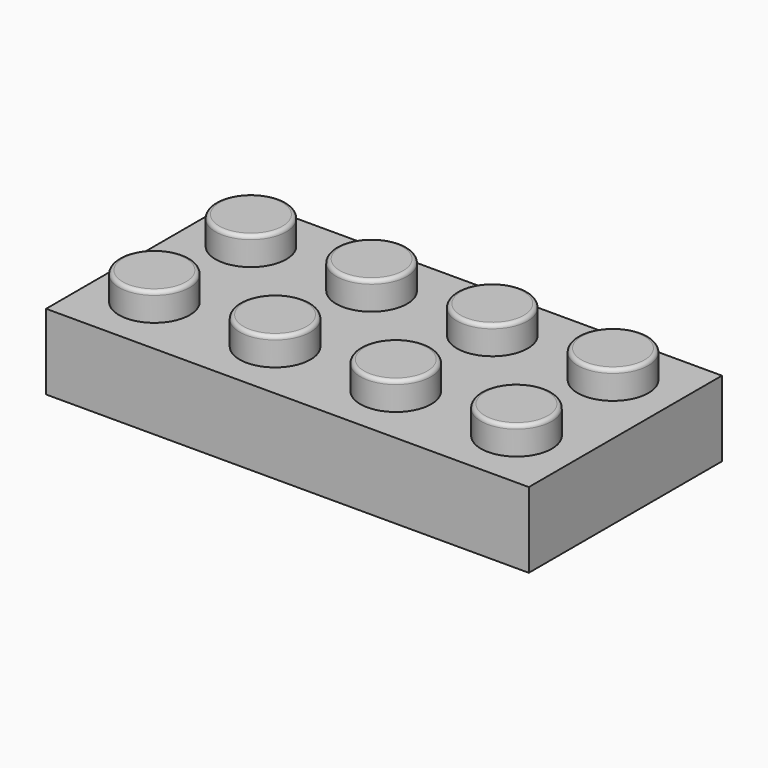
from build123d import *

# Parameters (mm, degrees)
F0_W     = 32.004
F0_H     = 16.002
F1_DEPTH = 5.0038
F2_R     = 2.3495
F3_DEPTH = 1.8542
F4_R     = 0.254


with BuildPart() as f1:
    # F0 (on Top) → F1 (new body)
    with BuildSketch(Plane.XY):
        with Locations((16.002, -8.001)):
            Rectangle(F0_W, F0_H)
    extrude(amount=F1_DEPTH)

    # F2 (on face) → F3 (join)
    with BuildSketch(Plane.XY.offset(5.0038)):
        with Locations((11.8999, -3.8989)):
            Circle(F2_R)
        with Locations((3.8989, -3.8989)):
            Circle(F2_R)
        with Locations((3.8989, -11.8999)):
            Circle(F2_R)
        with Locations((11.8999, -11.8999)):
            Circle(F2_R)
        with Locations((19.9009, -11.8999)):
            Circle(F2_R)
        with Locations((19.9009, -3.8989)):
            Circle(F2_R)
        with Locations((27.9019, -3.8989)):
            Circle(F2_R)
        with Locations((27.9019, -11.8999)):
            Circle(F2_R)
    extrude(amount=F3_DEPTH)

    # F4
    f4_edges = [f1.edges().sort_by_distance(p)[0] for p in [
        (1.5494, -11.8999, 6.858),
        (1.5494, -3.8989, 6.858),
        (9.5504, -3.8989, 6.858),
        (9.5504, -11.8999, 6.858),
        (17.5514, -11.8999, 6.858),
        (17.5514, -3.8989, 6.858),
        (25.5524, -3.8989, 6.858),
        (25.5524, -11.8999, 6.858),
    ]]
    fillet(f4_edges, radius=F4_R)


solid = f1.part
